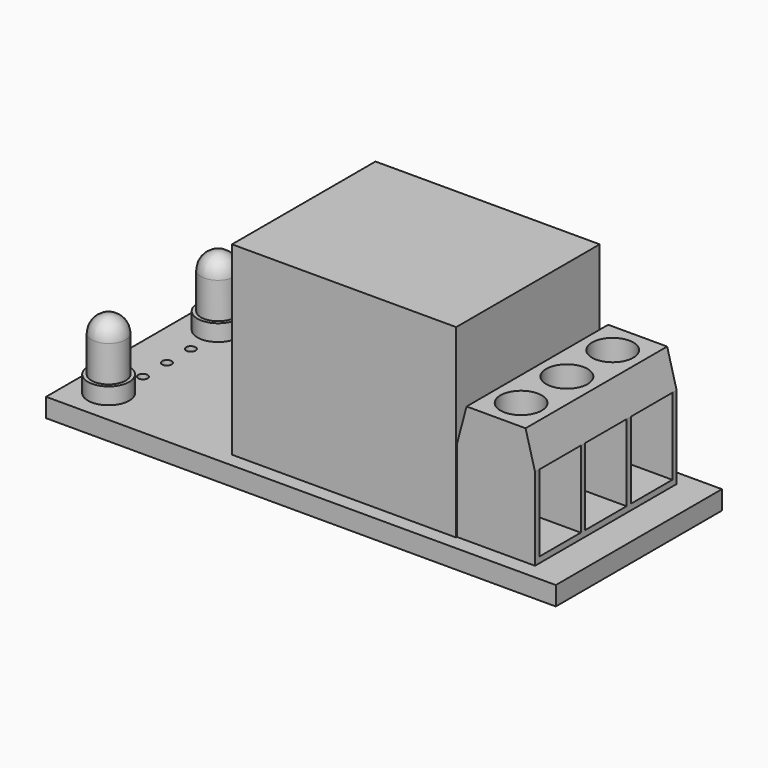
from build123d import *

# Parameters (mm, degrees)
SKETCH_W        = 43.2
SKETCH_H        = 17.6
SKETCH_R        = 0.4
PAD_DEPTH       = 1.6
SKETCH001_W     = 19
SKETCH001_H     = 15.2
PAD001_DEPTH    = 15.7
PAD002_DEPTH    = 7.5
SKETCH003_W     = 4.4
SKETCH003_H     = 6.5
POCKET_DEPTH    = 4.401
SKETCH004_R     = 1.75
POCKET001_DEPTH = 3.001


with BuildPart() as pcb:
    # Sketch → Pad (new body)
    with BuildSketch(Plane.XY):
        with Locations((21.6, 0)):
            Rectangle(SKETCH_W, SKETCH_H)
        with Locations((3.2, 2.54)):
            Circle(SKETCH_R, mode=Mode.SUBTRACT)
        with Locations((3.2, 0)):
            Circle(SKETCH_R, mode=Mode.SUBTRACT)
        with Locations((3.2, -2.54)):
            Circle(SKETCH_R, mode=Mode.SUBTRACT)
    extrude(amount=PAD_DEPTH)


with BuildPart() as obj1:
    # Sketch001 → Pad001 (new body)
    with BuildSketch(Plane.XY.offset(1.6)):
        with Locations((24.3, 0)):
            Rectangle(SKETCH001_W, SKETCH001_H)
    extrude(amount=PAD001_DEPTH)


with BuildPart() as connectors:
    # Sketch002 → Pad002 (new body, symmetric)
    with BuildSketch(Plane.XZ):
        Polygon((34.6, 11.6), (39.6, 11.6), (40.4, 8.6), (40.4, 1.6), (33.8, 1.6), (33.8, 8.6), align=None)
    extrude(amount=PAD002_DEPTH, both=True)

    # Sketch003 → Pocket (cut, through all)
    with BuildSketch(Plane.YZ.offset(36)):
        with Locations((-4.85, 5.35)):
            Rectangle(SKETCH003_W, SKETCH003_H)
        with Locations((0, 5.35)):
            Rectangle(SKETCH003_W, SKETCH003_H)
        with Locations((4.85, 5.35)):
            Rectangle(SKETCH003_W, SKETCH003_H)
    extrude(amount=POCKET_DEPTH, mode=Mode.SUBTRACT)

    # Sketch004 → Pocket001 (cut, through all)
    with BuildSketch(Plane.XY.offset(8.6)):
        with Locations((37.1, -4.85)):
            Circle(SKETCH004_R)
        with Locations((37.1, 4.85)):
            Circle(SKETCH004_R)
        with Locations((37.1, 0)):
            Circle(SKETCH004_R)
    extrude(amount=POCKET001_DEPTH, mode=Mode.SUBTRACT)


with BuildPart() as ledgreen:
    # Sketch005 → Revolution (revolve)
    with BuildSketch(Plane.YZ.offset(2.9)):
        with BuildLine():
            ThreePointArc((0, 7.5), (-1.025305, 7.075305), (-1.45, 6.05))
            Line((-1.45, 6.05), (-1.45, 3))
            Line((-1.45, 3), (-1.75, 3))
            Line((-1.75, 3), (-1.75, 1.6))
            Line((-1.75, 1.6), (0, 1.6))
            Line((0, 1.6), (0, 7.5))
        make_face()
    revolve(axis=Axis((2.9, 0, 0), (0, 0, 1)))


with BuildPart() as ledgreen_1:
    # Body003 placement: moved
    add(ledgreen.part.moved(Location((0, 5.8, 0))))


with BuildPart() as ledred:
    # Sketch006 → Revolution001 (revolve)
    with BuildSketch(Plane.YZ.offset(2.9)):
        with BuildLine():
            ThreePointArc((0, 7.5), (-1.025305, 7.075305), (-1.45, 6.05))
            Line((-1.45, 6.05), (-1.45, 3))
            Line((-1.45, 3), (-1.75, 3))
            Line((-1.75, 3), (-1.75, 1.6))
            Line((-1.75, 1.6), (0, 1.6))
            Line((0, 1.6), (0, 7.5))
        make_face()
    revolve(axis=Axis((2.9, 0, 0), (0, 0, 1)))


with BuildPart() as ledred_1:
    # Body004 placement: moved
    add(ledred.part.moved(Location((0, -5.8, 0))))


with BuildPart() as pin001:
    # Sketch007 → Revolution002 (revolve)
    with BuildSketch(Plane.YZ):
        with BuildLine():
            Line((1.2, 0), (0, 0))
            Line((0, 0), (0, -1.5))
            Line((0, -1.5), (0.6, -1.5))
            Line((0.6, -1.5), (0.6, -0.6))
            ThreePointArc((1.2, 0), (0.775736, -0.175736), (0.6, -0.6))
        make_face()
    revolve(axis=Axis((0, 0, 0), (0, 0, 1)))


with BuildPart() as pin001_1:
    # Body005 placement: moved
    add(pin001.part.moved(Location((1.7, 5.7, 0))))


with BuildPart() as pin002:
    # Sketch008 → Revolution003 (revolve)
    with BuildSketch(Plane.YZ):
        with BuildLine():
            Line((1.2, 0), (0, 0))
            Line((0, 0), (0, -1.5))
            Line((0, -1.5), (0.6, -1.5))
            Line((0.6, -1.5), (0.6, -0.6))
            ThreePointArc((1.2, 0), (0.775736, -0.175736), (0.6, -0.6))
        make_face()
    revolve(axis=Axis((0, 0, 0), (0, 0, 1)))


with BuildPart() as pin002_1:
    # Body006 placement: moved
    add(pin002.part.moved(Location((4.1, 5.7, 0))))


with BuildPart() as pin003:
    # Sketch009 → Revolution004 (revolve)
    with BuildSketch(Plane.YZ):
        with BuildLine():
            Line((1.2, 0), (0, 0))
            Line((0, 0), (0, -1.5))
            Line((0, -1.5), (0.6, -1.5))
            Line((0.6, -1.5), (0.6, -0.6))
            ThreePointArc((1.2, 0), (0.775736, -0.175736), (0.6, -0.6))
        make_face()
    revolve(axis=Axis((0, 0, 0), (0, 0, 1)))


with BuildPart() as pin003_1:
    # Body007 placement: moved
    add(pin003.part.moved(Location((4.1, -5.9, 0))))


with BuildPart() as pin004:
    # Sketch010 → Revolution005 (revolve)
    with BuildSketch(Plane.YZ):
        with BuildLine():
            Line((1.2, 0), (0, 0))
            Line((0, 0), (0, -1.5))
            Line((0, -1.5), (0.6, -1.5))
            Line((0.6, -1.5), (0.6, -0.6))
            ThreePointArc((1.2, 0), (0.775736, -0.175736), (0.6, -0.6))
        make_face()
    revolve(axis=Axis((0, 0, 0), (0, 0, 1)))


with BuildPart() as pin004_1:
    # Body008 placement: moved
    add(pin004.part.moved(Location((1.7, -5.9, 0))))


with BuildPart() as pin005:
    # Sketch011 → Revolution006 (revolve)
    with BuildSketch(Plane.YZ):
        with BuildLine():
            Line((1.2, 0), (0, 0))
            Line((0, 0), (0, -1.5))
            Line((0, -1.5), (0.6, -1.5))
            Line((0.6, -1.5), (0.6, -0.6))
            ThreePointArc((1.2, 0), (0.775736, -0.175736), (0.6, -0.6))
        make_face()
    revolve(axis=Axis((0, 0, 0), (0, 0, 1)))


with BuildPart() as pin005_1:
    # Body009 placement: moved
    add(pin005.part.moved(Location((37.1, -4.8, 0))))


with BuildPart() as pin006:
    # Sketch012 → Revolution007 (revolve)
    with BuildSketch(Plane.YZ):
        with BuildLine():
            Line((1.2, 0), (0, 0))
            Line((0, 0), (0, -1.5))
            Line((0, -1.5), (0.6, -1.5))
            Line((0.6, -1.5), (0.6, -0.6))
            ThreePointArc((1.2, 0), (0.775736, -0.175736), (0.6, -0.6))
        make_face()
    revolve(axis=Axis((0, 0, 0), (0, 0, 1)))


with BuildPart() as pin006_1:
    # Body010 placement: moved
    add(pin006.part.moved(Location((37.1, 0, 0))))


with BuildPart() as pin007:
    # Sketch013 → Revolution008 (revolve)
    with BuildSketch(Plane.YZ):
        with BuildLine():
            Line((1.2, 0), (0, 0))
            Line((0, 0), (0, -1.5))
            Line((0, -1.5), (0.6, -1.5))
            Line((0.6, -1.5), (0.6, -0.6))
            ThreePointArc((1.2, 0), (0.775736, -0.175736), (0.6, -0.6))
        make_face()
    revolve(axis=Axis((0, 0, 0), (0, 0, 1)))


with BuildPart() as pin007_1:
    # Body011 placement: moved
    add(pin007.part.moved(Location((37.1, 4.8, 0))))


solid = Compound([pcb.part, obj1.part, connectors.part, ledgreen_1.part, ledred_1.part, pin001_1.part, pin002_1.part, pin003_1.part, pin004_1.part, pin005_1.part, pin006_1.part, pin007_1.part])
